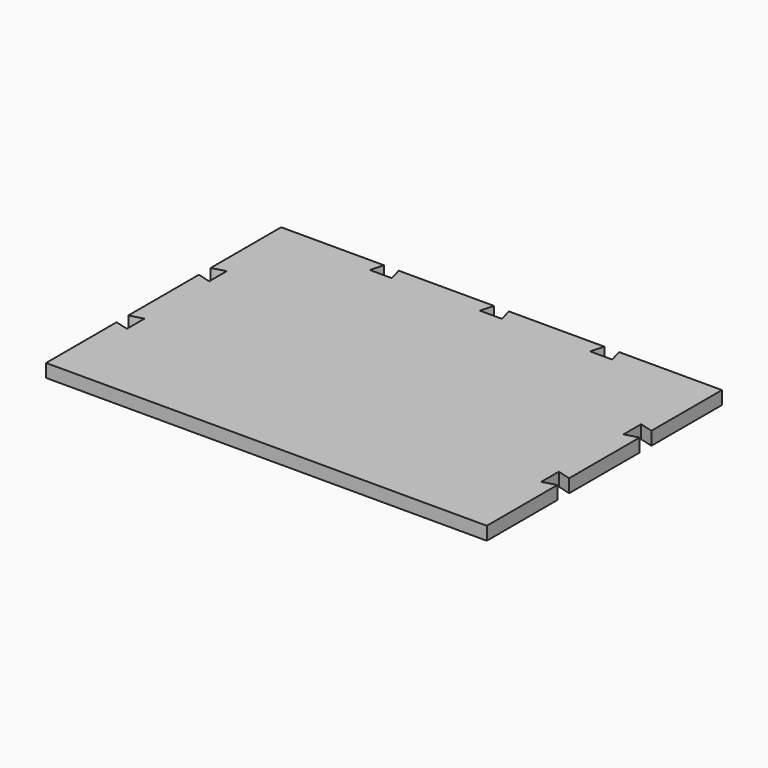
from build123d import *

# Parameters (mm, degrees)
F0_W          = 400
F0_H          = 18
F1_DEPTH      = 600
F3_DEPTH      = 18
F3_DEPTH_BACK = 25


with BuildPart() as f1:
    # F0 (on Right) → F1 (new body)
    with BuildSketch(Plane.YZ):
        with Locations((200, 9)):
            Rectangle(F0_W, F0_H)
    extrude(amount=-F1_DEPTH)

    # F2 (on Top) → F3 (cut, two sides)
    with BuildSketch(Plane.XY) as f3_sk:
        Polygon((-300, 400), (-310, 400), (-315, 382), (-300, 382), (-285, 382), (-290, 400), align=None)
        Polygon((-150, 400), (-160, 400), (-165, 382), (-135, 382), (-140, 400), align=None)
        Polygon((-450, 400), (-460, 400), (-465, 382), (-435, 382), (-440, 400), align=None)
        Polygon((-600, 280), (-600, 270), (-600, 260), (-582, 255), (-582, 270), (-582, 285), align=None)
        Polygon((-582, 145), (-600, 140), (-600, 130), (-600, 120), (-582, 115), (-582, 130), align=None)
        Polygon((0, 270), (0, 280), (-18, 285), (-18, 270), (-18, 255), (0, 260), align=None)
        Polygon((-18, 115), (0, 120), (0, 130), (0, 140), (-18, 145), (-18, 130), align=None)
    extrude(amount=F3_DEPTH, mode=Mode.SUBTRACT)
    extrude(f3_sk.sketch, amount=-F3_DEPTH_BACK, mode=Mode.SUBTRACT)


solid = f1.part
